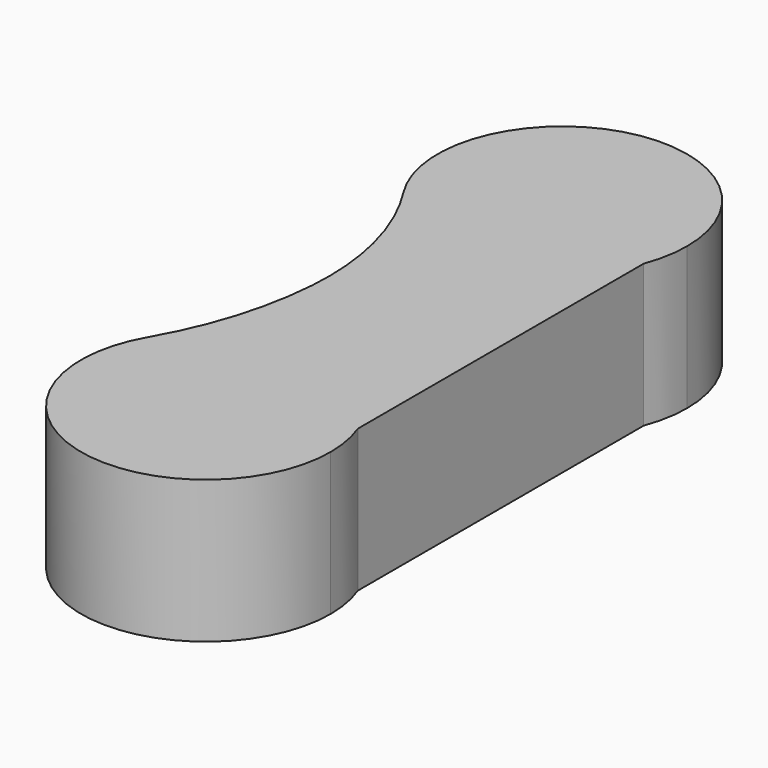
from build123d import *

# Parameters (mm, degrees)
F0_R     = 0.75
F1_DEPTH = 8
F2_R     = 19.7132732736
F3_R     = 15.261888986


with BuildPart() as f1:
    # F0 (on Top) → F1 (new body)
    with BuildSketch(Plane.XY):
        with BuildLine():
            Line((-14.586677067, 11.8301414847), (-14.586677067, 16.0179088211))
            ThreePointArc((-14.586677067, 16.0179088211), (-14.6560408436, 3.8804388779), (-4.1329702753, 9.929238244))
            ThreePointArc((-4.1329702753, 9.929238244), (-4.2473311453, 11.189386557), (-4.586677067, 12.4083601108))
            Line((-4.586677067, 12.4083601108), (-4.586677067, 11.8301414847))
            Line((-4.586677067, 11.8301414847), (-14.586677067, 11.8301414847))
        make_face()
        with BuildLine():
            Line((-14.586677067, 32.8301414847), (-14.586677067, 28.8405676668))
            ThreePointArc((-14.586677067, 28.8405676668), (-8.7563690973, 28.3450323814), (-4.586677067, 32.4501163771))
            Line((-4.586677067, 32.4501163771), (-4.586677067, 32.8301414847))
            Line((-4.586677067, 32.8301414847), (-14.586677067, 32.8301414847))
        make_face()
        with BuildLine():
            ThreePointArc((-4.586677067, 32.4501163771), (-8.7563690973, 28.3450323814), (-14.586677067, 28.8405676668))
            Line((-14.586677067, 28.8405676668), (-14.586677067, 16.0179088211))
            ThreePointArc((-14.586677067, 16.0179088211), (-8.7563690973, 16.5134441066), (-4.586677067, 12.4083601108))
            Line((-4.586677067, 12.4083601108), (-4.586677067, 32.4501163771))
        make_face()
        with BuildLine():
            ThreePointArc((-4.586677067, 32.4501163771), (-4.2473311453, 33.6690899309), (-4.1329702753, 34.929238244))
            ThreePointArc((-4.1329702753, 34.929238244), (-14.6560408436, 40.97803761), (-14.586677067, 28.8405676668))
            Line((-14.586677067, 28.8405676668), (-14.586677067, 32.8301414847))
            Line((-14.586677067, 32.8301414847), (-4.586677067, 32.8301414847))
            Line((-4.586677067, 32.8301414847), (-4.586677067, 32.4501163771))
        make_face()
        with Locations((-11.1329702753, 34.929238244)):
            Circle(F0_R, mode=Mode.SUBTRACT)
        with BuildLine():
            ThreePointArc((-4.586677067, 12.4083601108), (-8.7563690973, 16.5134441066), (-14.586677067, 16.0179088211))
            Line((-14.586677067, 16.0179088211), (-14.586677067, 11.8301414847))
            Line((-14.586677067, 11.8301414847), (-4.586677067, 11.8301414847))
            Line((-4.586677067, 11.8301414847), (-4.586677067, 12.4083601108))
        make_face()
        with Locations((-11.1329702753, 34.929238244)):
            Circle(F0_R)
    extrude(amount=F1_DEPTH)

    # F2
    f2_edges = [f1.edges().sort_by_distance(p)[0] for p in [
        (-14.586677, 16.017909, 4),
    ]]
    fillet(f2_edges, radius=F2_R)

    # F3
    f3_edges = [f1.edges().sort_by_distance(p)[0] for p in [
        (-14.586677, 28.840568, 4),
    ]]
    fillet(f3_edges, radius=F3_R)


solid = f1.part
